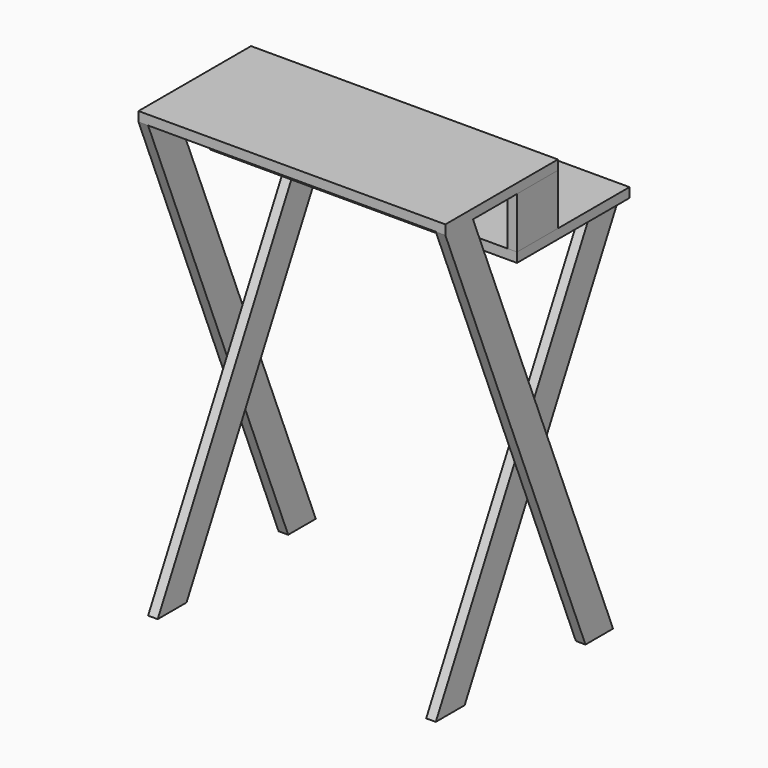
from build123d import *

# Parameters (mm, degrees)
F0_W      = 609.6
F0_H      = 279.4
F1_DEPTH  = 19.05
F3_W      = 609.6
F3_H      = 279.4
F4_DEPTH  = 19.05
F6_DEPTH  = 19.05
F8_DEPTH  = 19.05
F10_DEPTH = 19.05
F12_DEPTH = 19.05
F13_W     = 19.05
F13_H     = 101.6
F14_DEPTH = 101.6


with BuildPart() as f1:
    # F0 (on Top) → F1 (new body)
    with BuildSketch(Plane.XY):
        with Locations((304.8, 139.7)):
            Rectangle(F0_W, F0_H)
    extrude(amount=F1_DEPTH)


with BuildPart() as f4:
    # F3 (on offset) → F4 (new body)
    with BuildSketch(Plane.XY.offset(120.65)):
        with Locations((304.8, -38.1)):
            Rectangle(F3_W, F3_H)
    extrude(amount=F4_DEPTH)

    # F7 (on face) → F8 (join)
    with BuildSketch(Plane.YZ.offset(609.6)):
        Polygon((170.076899, -736.6), (238.606264, -736.6), (-109.270636, 120.65), (-177.8, 120.65), align=None)
    extrude(amount=-F8_DEPTH)


with BuildPart() as f6:
    # F5 (on face) → F6 (new body)
    with BuildSketch(Plane(origin=(0, 0, 0), x_dir=(0, -1, 0), z_dir=(-1, 0, 0))):
        Polygon((-170.076899, -736.6), (177.8, 120.65), (109.270636, 120.65), (-238.606264, -736.6), align=None)
    extrude(amount=-F6_DEPTH)


with BuildPart() as f10:
    # F9 (on face) → F10 (new body)
    with BuildSketch(Plane(origin=(590.55, 0, 0), x_dir=(0, -1, 0), z_dir=(-1, 0, 0))):
        Polygon((177.8, -736.6), (-207.728328, 0), (-279.4, 0), (106.128328, -736.6), align=None)
    extrude(amount=F10_DEPTH)


with BuildPart() as f12:
    # F11 (on face) → F12 (new body)
    with BuildSketch(Plane.YZ.offset(19.05)):
        Polygon((207.728328, 0), (-177.8, -736.6), (-106.128328, -736.6), (279.4, 0), align=None)
    extrude(amount=F12_DEPTH)


with BuildPart() as f14:
    # F13 (on face) → F14 (new body)
    with BuildSketch(Plane.XY.offset(19.05)):
        with Locations((9.525, 50.8)):
            Rectangle(F13_W, F13_H)
        with Locations((600.075, 50.8)):
            Rectangle(F13_W, F13_H)
    extrude(amount=F14_DEPTH)


solid = Compound([f1.part, f4.part, f6.part, f10.part, f12.part, f14.part])
